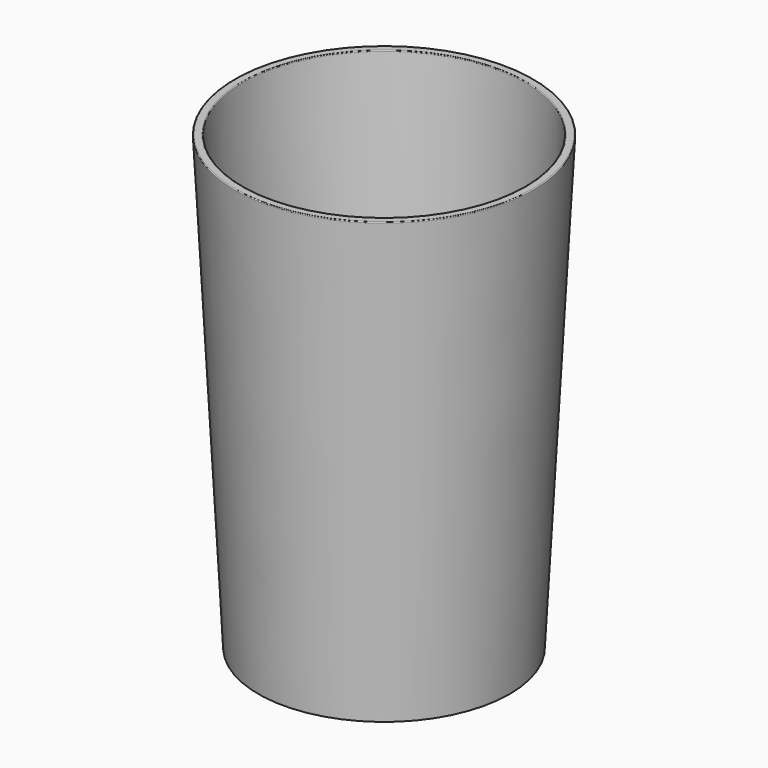
from build123d import *

# Parameters (mm, degrees)
F0_R     = 40.1427902356
F1_DEPTH = 144.426420331
F1_TAPER = -3
F2_T     = -2.54
F3_R     = 0.254


with BuildPart() as f1:
    # F0 (on Top) → F1 (new body)
    with BuildSketch(Plane.XY):
        Circle(F0_R)
    extrude(amount=F1_DEPTH, taper=F1_TAPER)

    # F2
    f2_openings = [f1.faces().sort_by_distance(p)[0] for p in [
        (0, 0, 144.42642),
    ]]
    offset(amount=F2_T, openings=f2_openings, kind=Kind.INTERSECTION)

    # F3
    f3_edges = [f1.edges().sort_by_distance(p)[0] for p in [
        (-47.711858, 0, 144.42642),
        (-45.168372, 0, 144.42642),
    ]]
    fillet(f3_edges, radius=F3_R)


solid = f1.part
